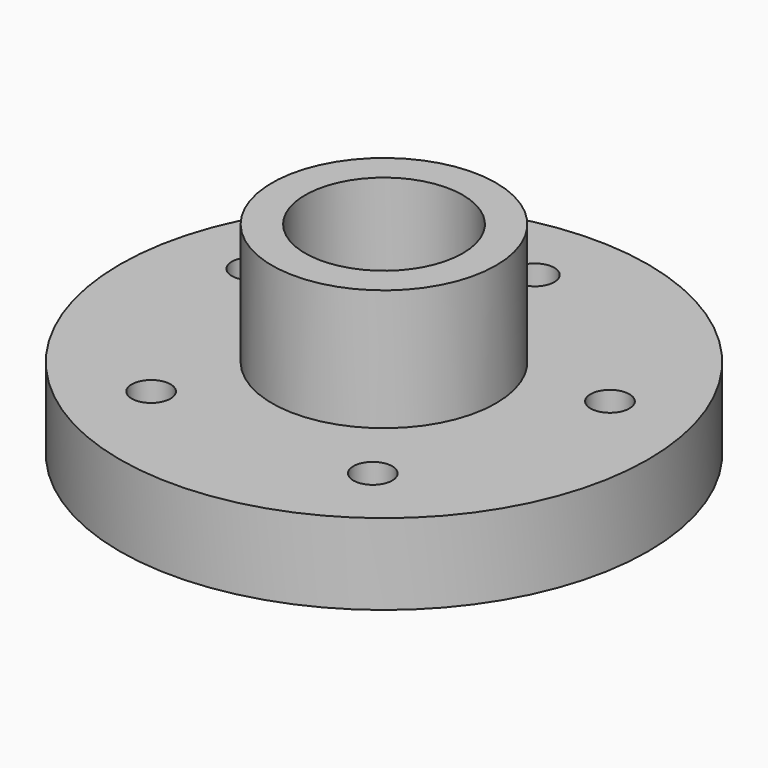
from build123d import *

# Parameters (mm, degrees)
SKETCH_R           = 13.063078
PAD_DEPTH          = 4
SKETCH001_R        = 0.961125
POCKET_DEPTH       = 78.328708
POLARPATTERN_COUNT = 5
SKETCH002_R        = 5.538718
PAD001_DEPTH       = 6
SKETCH003_R        = 3.898849
POCKET001_DEPTH    = 10.001


with BuildPart() as part:
    # Sketch → Pad (new body)
    with BuildSketch(Plane.XY):
        Circle(SKETCH_R)
    extrude(amount=PAD_DEPTH)

    # Sketch001 (on DatumPlane) → Pocket (cut, through all)
    with BuildSketch(Plane.XY.offset(4)):
        with Locations((0, 9.326428)):
            Circle(SKETCH001_R)
    pocket = extrude(amount=-POCKET_DEPTH, mode=Mode.SUBTRACT)

    # PolarPattern: Pocket ×5 about axis
    polarpattern_axis = Axis((0, 0, 4), (0, 0, 1))
    for i in range(1, POLARPATTERN_COUNT):
        add(pocket.rotate(polarpattern_axis, i * 360 / POLARPATTERN_COUNT), mode=Mode.SUBTRACT)

    # Sketch002 (on DatumPlane) → Pad001 (join)
    with BuildSketch(Plane.XY.offset(4)):
        Circle(SKETCH002_R)
    extrude(amount=PAD001_DEPTH)

    # Sketch003 (on DatumPlane) → Pocket001 (cut, through all)
    with BuildSketch(Plane.XY.offset(10)):
        Circle(SKETCH003_R)
    extrude(amount=-POCKET001_DEPTH, mode=Mode.SUBTRACT)


solid = part.part
